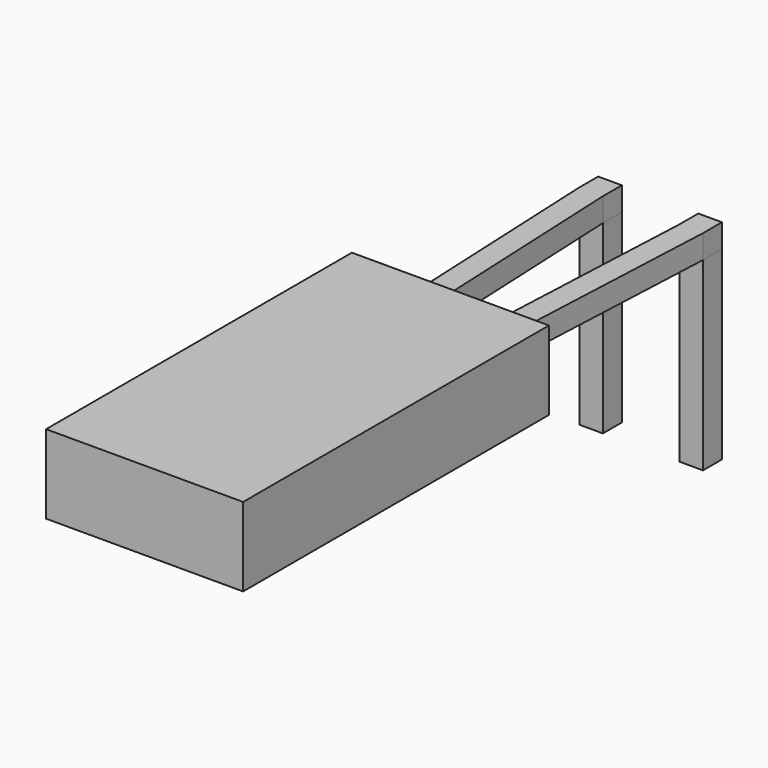
from build123d import *

# Parameters (mm, degrees)
SKETCH_W       = 0.6
SKETCH_H       = 0.6
PAD_DEPTH      = 2.7
PAD_DEPTH_BACK = 2
PAD001_DEPTH   = 0.6
SKETCH002_W    = 2.54
SKETCH002_H    = 0.6
PAD002_DEPTH   = 1
SKETCH004_W    = 5
SKETCH004_H    = 2
PAD003_DEPTH   = 9.7


with BuildPart() as pad:
    # Sketch → Pad (new body, two sides)
    with BuildSketch(Plane.XY) as pad_sk:
        Rectangle(SKETCH_W, SKETCH_H)
        with Locations((2.54, 0)):
            Rectangle(SKETCH_W, SKETCH_H)
    extrude(amount=PAD_DEPTH)
    extrude(pad_sk.sketch, amount=-PAD_DEPTH_BACK)


with BuildPart() as pad001:
    # Sketch001 → Pad001 (new body)
    with BuildSketch(Plane.XY.offset(2.7)):
        Polygon((0.3, 0.3), (-0.3, 0.3), (-0.3, -0.3), (0, -6.85), (0.6, -6.85), (0.3, -0.3), align=None)
        Polygon((2.84, 0.3), (2.24, 0.3), (2.24, -0.3), (1.94, -6.85), (2.54, -6.85), (2.84, -0.3), align=None)
    extrude(amount=PAD001_DEPTH)


with BuildPart() as pad002:
    # Sketch002 → Pad002 (new body)
    with BuildSketch(Plane.XZ.offset(6.85)):
        with Locations((1.27, 3)):
            Rectangle(SKETCH002_W, SKETCH002_H)
    extrude(amount=PAD002_DEPTH)


with BuildPart() as pad003:
    # Sketch004 → Pad003 (new body)
    with BuildSketch(Plane.XZ.offset(6.35)):
        with Locations((1.27, 3)):
            Rectangle(SKETCH004_W, SKETCH004_H)
    extrude(amount=PAD003_DEPTH)


with BuildPart() as revolution001:
    # Sketch005 → Revolution001 (revolve)
    with BuildSketch(Plane.YZ.offset(1.27)):
        Polygon((-7.55, 3), (-8.05, 3), (-8.05, 3.5), align=None)
    revolve(axis=Axis((1.27, -3.977201, 3), (0, -1, 0)))


solid = Compound([pad.part, pad001.part, pad002.part, pad003.part, revolution001.part])
